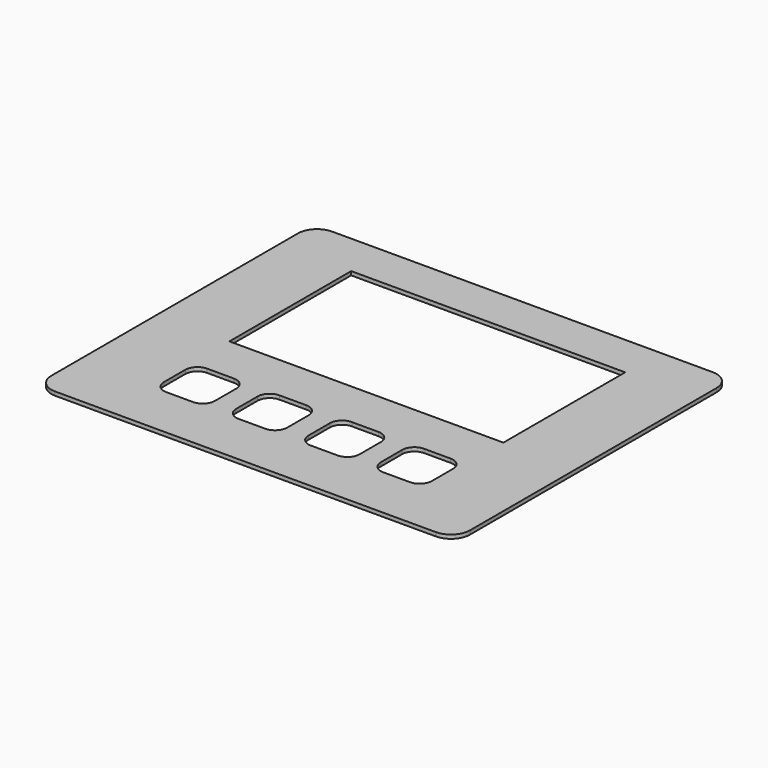
from build123d import *

# Parameters (mm, degrees)
F0_W     = 110
F0_H     = 91
F1_DEPTH = 1
F2_W     = 72
F2_H     = 40
F3_DEPTH = 1.001
F4_R     = 5
F6_DEPTH = 1.001


with BuildPart() as f1:
    # F0 (on Top) → F1 (new body)
    with BuildSketch(Plane.XY):
        with Locations((55, 45.5)):
            Rectangle(F0_W, F0_H)
    extrude(amount=F1_DEPTH)

    # F2 (on face) → F3 (cut, through all)
    with BuildSketch(Plane.XY.offset(1)):
        with Locations((55, 59.718266)):
            Rectangle(F2_W, F2_H)
    extrude(amount=-F3_DEPTH, mode=Mode.SUBTRACT)

    # F4
    f4_edges = [f1.edges().sort_by_distance(p)[0] for p in [
        (0, 91, 0.5),
        (0, 0, 0.5),
        (110, 91, 0.5),
        (110, 0, 0.5),
    ]]
    fillet(f4_edges, radius=F4_R)

    # F5 (on face) → F6 (cut, through all)
    with BuildSketch(Plane.XY.offset(1)):
        with BuildLine():
            Line((30, 27.418266), (23, 27.418266))
            ThreePointArc((23, 27.418266), (20.737258, 26.481008), (19.8, 24.218266))
            Line((19.8, 24.218266), (19.8, 17.218266))
            ThreePointArc((19.8, 17.218266), (20.737258, 14.955525), (23, 14.018266))
            Line((23, 14.018266), (30, 14.018266))
            ThreePointArc((30, 14.018266), (32.262742, 14.955525), (33.2, 17.218266))
            Line((33.2, 17.218266), (33.2, 24.218266))
            ThreePointArc((33.2, 24.218266), (32.262742, 26.481008), (30, 27.418266))
        make_face()
        with BuildLine():
            Line((49, 27.418266), (42, 27.418266))
            ThreePointArc((42, 27.418266), (39.737258, 26.481008), (38.8, 24.218266))
            Line((38.8, 24.218266), (38.8, 17.218266))
            ThreePointArc((38.8, 17.218266), (39.737258, 14.955525), (42, 14.018266))
            Line((42, 14.018266), (49, 14.018266))
            ThreePointArc((49, 14.018266), (51.262742, 14.955525), (52.2, 17.218266))
            Line((52.2, 17.218266), (52.2, 24.218266))
            ThreePointArc((52.2, 24.218266), (51.262742, 26.481008), (49, 27.418266))
        make_face()
        with BuildLine():
            Line((68, 27.418266), (61, 27.418266))
            ThreePointArc((61, 27.418266), (58.737258, 26.481008), (57.8, 24.218266))
            Line((57.8, 24.218266), (57.8, 17.218266))
            ThreePointArc((57.8, 17.218266), (58.737258, 14.955525), (61, 14.018266))
            Line((61, 14.018266), (68, 14.018266))
            ThreePointArc((68, 14.018266), (70.262742, 14.955525), (71.2, 17.218266))
            Line((71.2, 17.218266), (71.2, 24.218266))
            ThreePointArc((71.2, 24.218266), (70.262742, 26.481008), (68, 27.418266))
        make_face()
        with BuildLine():
            Line((87, 27.418266), (80, 27.418266))
            ThreePointArc((80, 27.418266), (77.737258, 26.481008), (76.8, 24.218266))
            Line((76.8, 24.218266), (76.8, 17.218266))
            ThreePointArc((76.8, 17.218266), (77.737258, 14.955525), (80, 14.018266))
            Line((80, 14.018266), (87, 14.018266))
            ThreePointArc((87, 14.018266), (89.262742, 14.955525), (90.2, 17.218266))
            Line((90.2, 17.218266), (90.2, 24.218266))
            ThreePointArc((90.2, 24.218266), (89.262742, 26.481008), (87, 27.418266))
        make_face()
    extrude(amount=-F6_DEPTH, mode=Mode.SUBTRACT)


solid = f1.part
